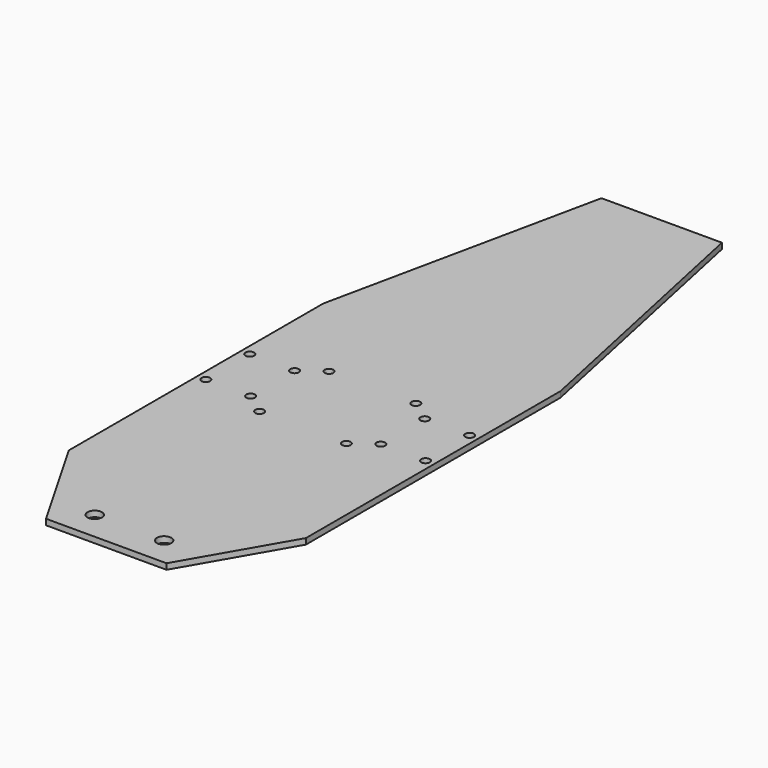
from build123d import *

# Parameters (mm, degrees)
F0_W     = 82
F0_H     = 110
F1_DEPTH = 2
F3_D     = 3
F5_D     = 5
F7_D     = 3


with BuildPart() as f1:
    # F0 (on Top) → F1 (new body)
    with BuildSketch(Plane.XY):
        Polygon((20.1851744205, 205), (0, 110), (82, 110), (61.8148255795, 205), align=None)
        with Locations((41, 55)):
            Rectangle(F0_W, F0_H)
        Polygon((82, 0), (0, 0), (20.1851744205, -35), (61.8148255795, -35), align=None)
    extrude(amount=F1_DEPTH)

    # F3 (through all)
    with Locations(Plane.XY.offset(2)):
        with Locations((18.5, 55.5), (3, 55.5), (3, 74.5), (18.5, 74.5), (63.5, 74.5), (63.5, 55.5), (79, 55.5), (79, 74.5)):
            Hole(F3_D / 2)

    # F5 (through all)
    with Locations(Plane.XY.offset(2)):
        with Locations((29, -25), (53, -25)):
            Hole(F5_D / 2)

    # F7 (through all)
    with Locations(Plane.XY.offset(2)):
        with Locations((26, 80), (56, 50), (56, 80), (26, 50)):
            Hole(F7_D / 2)


solid = f1.part
